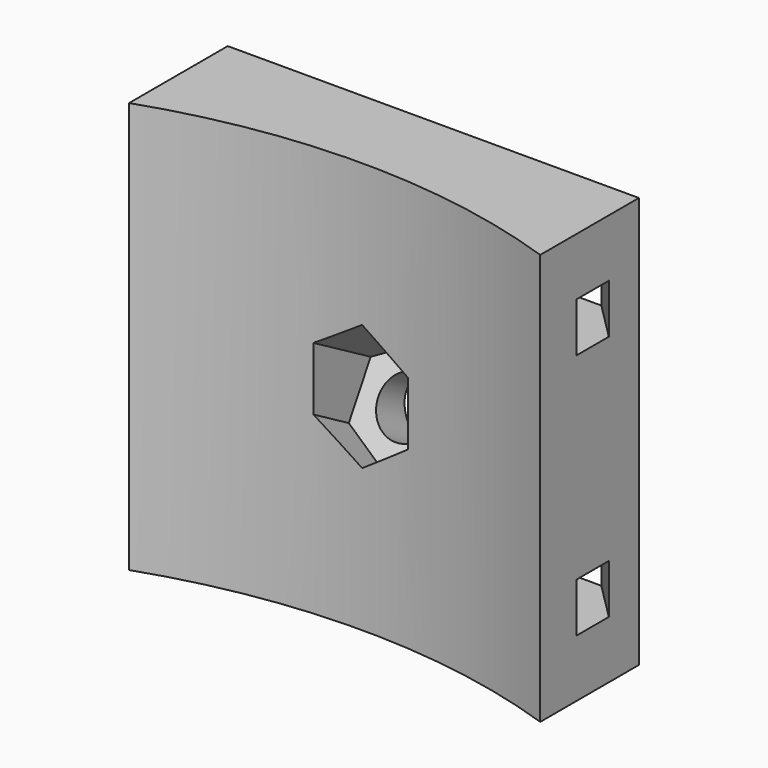
from build123d import *

# Parameters (mm, degrees)
F1_DEPTH  = 50
F3_R      = 3.5
F4_DEPTH  = 25
F5_START  = 14
F5_DEPTH  = 18
F7_W      = 3.5
F7_H      = 6
F8_DEPTH  = 12.5
F10_W     = 3.5
F10_H     = 6
F11_DEPTH = 12.5


with BuildPart() as f1:
    # F0 (on Top) → F1 (new body)
    with BuildSketch(Plane.XY):
        with BuildLine():
            ThreePointArc((-25, -7.5), (0, -3.3285658241), (25, -7.5))
            Line((25, -7.5), (25, 7.5))
            Line((25, 7.5), (-25, 7.5))
            Line((-25, 7.5), (-25, -7.5))
        make_face()
    extrude(amount=F1_DEPTH)

    # F3 (on face) → F4 (cut)
    with BuildSketch(Plane(origin=(0, 5.625, -3.2475952642), x_dir=(1, 0, 0), z_dir=(0, -0.8660254038, 0.5))):
        with Locations((0, 20)):
            Circle(F3_R)
    extrude(amount=F4_DEPTH, mode=Mode.SUBTRACT)

    # F3 (on face) → F5 (cut)
    with BuildSketch(Plane(origin=(0, 5.625, -3.2475952642), x_dir=(1, 0, 0), z_dir=(0, -0.8660254038, 0.5)).offset(F5_START)):
        Polygon((-5.75, 23.3197640478), (-5.75, 16.6802359522), (0, 13.3604719043), (5.75, 16.6802359522), (5.75, 23.3197640478), (0, 26.6395280957), align=None)
        with Locations((0, 20)):
            Circle(F3_R, mode=Mode.SUBTRACT)
        with Locations((0, 20)):
            Circle(F3_R)
    extrude(amount=F5_DEPTH, mode=Mode.SUBTRACT)

    # F7 (on face) → F8 (cut, symmetric)
    with BuildSketch(Plane(origin=(8.75, -8.75, 0), x_dir=(-0.7071067812, -0.7071067812, 0), z_dir=(-0.7071067812, 0.7071067812, 0))):
        with Locations((-18, 10)):
            Rectangle(F7_W, F7_H)
        with Locations((-18, 40)):
            Rectangle(F7_W, F7_H)
    extrude(amount=F8_DEPTH, both=True, mode=Mode.SUBTRACT)

    # F10 (on face) → F11 (cut, symmetric)
    with BuildSketch(Plane(origin=(-8.75, -8.75, 0), x_dir=(0.7071067812, -0.7071067812, 0), z_dir=(-0.7071067812, -0.7071067812, 0))):
        with Locations((-18, 10)):
            Rectangle(F10_W, F10_H)
        with Locations((-18, 40)):
            Rectangle(F10_W, F10_H)
    extrude(amount=F11_DEPTH, both=True, mode=Mode.SUBTRACT)


solid = f1.part
